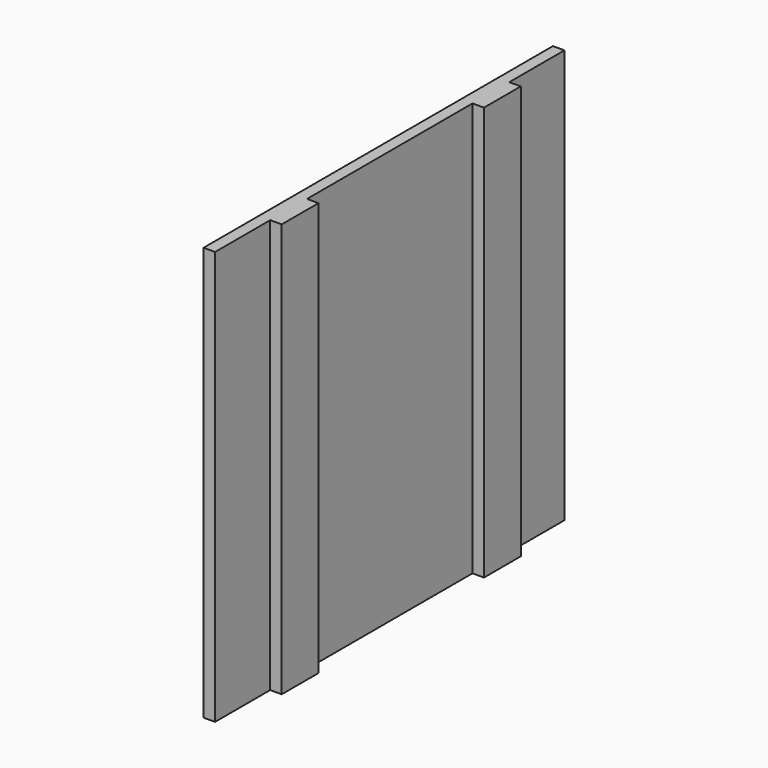
from build123d import *

# Parameters (mm, degrees)
F0_W     = 482.6
F0_H     = 457.2
F1_DEPTH = 12.7
F2_W     = 50.8
F2_H     = 457.2
F3_DEPTH = 12.7


with BuildPart() as f1:
    # F0 (on Right) → F1 (new body)
    with BuildSketch(Plane.YZ):
        with Locations((241.3, 228.6)):
            Rectangle(F0_W, F0_H)
    extrude(amount=F1_DEPTH)

    # F2 (on face) → F3 (join)
    with BuildSketch(Plane.YZ.offset(12.7)):
        with Locations((101.6, 228.6)):
            Rectangle(F2_W, F2_H)
        with Locations((381, 228.6)):
            Rectangle(F2_W, F2_H)
    extrude(amount=F3_DEPTH)


solid = f1.part
